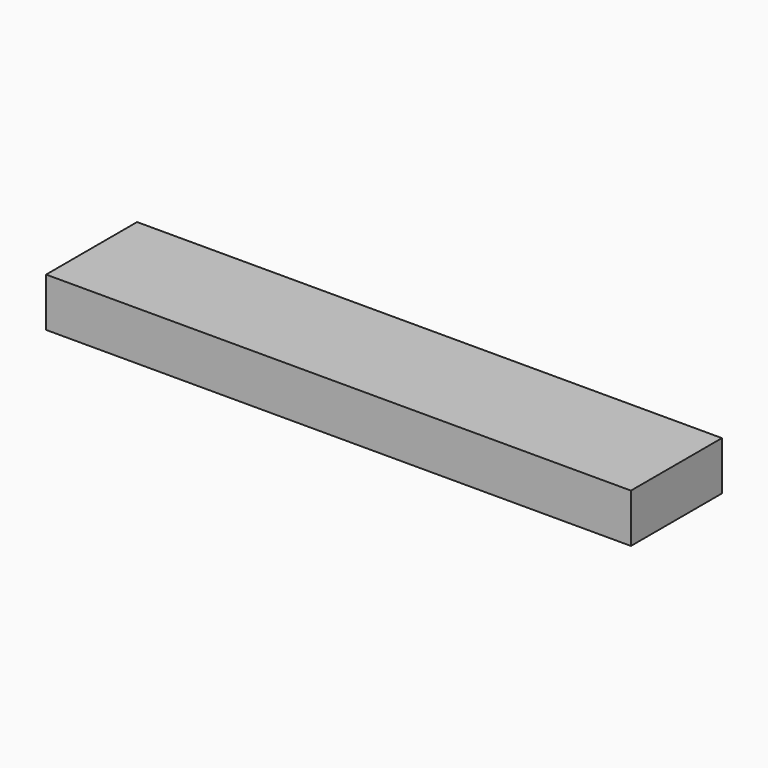
from build123d import *

# Parameters (mm, degrees)
F0_W     = 88.9
F0_H     = 38.1
F1_DEPTH = 457.2


with BuildPart() as f1:
    # F0 (on Right) → F1 (new body)
    with BuildSketch(Plane.YZ):
        Rectangle(F0_W, F0_H)
        Rectangle(F0_W, F0_H)
    extrude(amount=F1_DEPTH)


solid = f1.part
